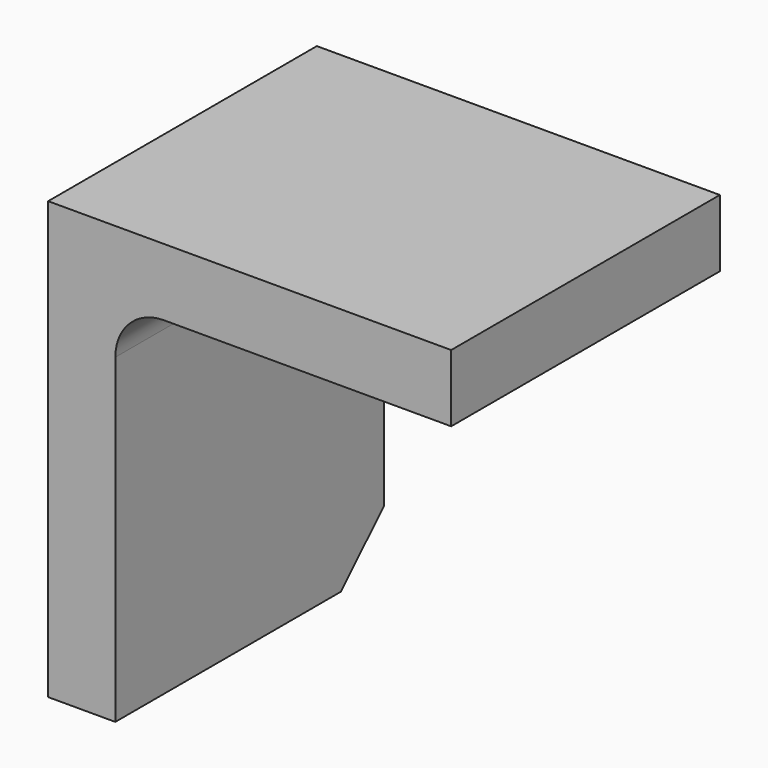
from build123d import *

# Parameters (mm, degrees)
F1_DEPTH = 15.875
F2_R     = 4.572
F3_SIZE  = 5.08


with BuildPart() as f1:
    # F0 (on Front) → F1 (new body, symmetric)
    with BuildSketch(Plane.XZ):
        Polygon((0, 41.275), (0, 0), (6.35, 0), (6.35, 34.925), (38.1, 34.925), (38.1, 41.275), align=None)
    extrude(amount=F1_DEPTH, both=True)

    # F2
    f2_edges = [f1.edges().sort_by_distance(p)[0] for p in [
        (6.35, 0, 34.925),
    ]]
    fillet(f2_edges, radius=F2_R)

    # F3
    f3_edges = [f1.edges().sort_by_distance(p)[0] for p in [
        (3.175, 15.875, 0),
    ]]
    chamfer(f3_edges, length=F3_SIZE)


solid = f1.part
